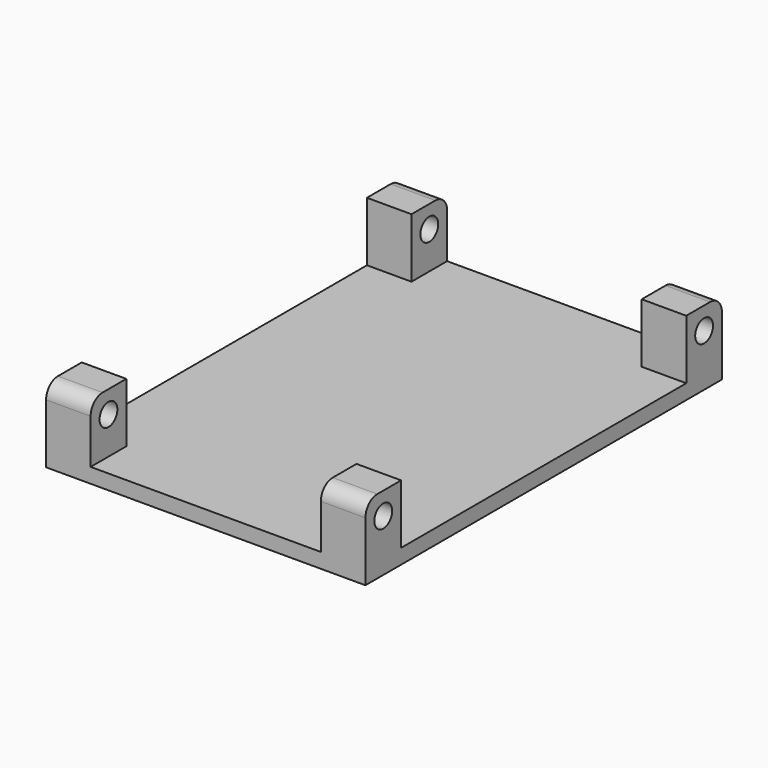
from build123d import *

# Parameters (mm, degrees)
SKETCH_W        = 43
SKETCH_H        = 60
PAD_DEPTH       = 2
SKETCH001_W     = 6
SKETCH001_H     = 6
PAD001_DEPTH    = 8
SKETCH002_R     = 1.5
POCKET_DEPTH    = 6
SKETCH003_R     = 1.5
POCKET001_DEPTH = 6
FILLET_R        = 2
FILLET001_R     = 2
FILLET002_R     = 2
FILLET003_R     = 2


with BuildPart() as part:
    # Sketch → Pad (new body)
    with BuildSketch(Plane.XY):
        Rectangle(SKETCH_W, SKETCH_H)
    extrude(amount=PAD_DEPTH)

    # Sketch001 (on Face6 of Pad) → Pad001 (join)
    with BuildSketch(Plane.XY.offset(2)):
        with Locations((-18.5, 27)):
            Rectangle(SKETCH001_W, SKETCH001_H)
        with Locations((18.5, 27)):
            Rectangle(SKETCH001_W, SKETCH001_H)
        with Locations((-18.5, -27)):
            Rectangle(SKETCH001_W, SKETCH001_H)
        with Locations((18.5, -27)):
            Rectangle(SKETCH001_W, SKETCH001_H)
    extrude(amount=PAD001_DEPTH)

    # Sketch002 (on Face12 of Pad001) → Pocket (cut)
    with BuildSketch(Plane.YZ.offset(21.5)):
        with Locations((-27, 7)):
            Circle(SKETCH002_R)
        with Locations((27, 7)):
            Circle(SKETCH002_R)
    extrude(amount=-POCKET_DEPTH, mode=Mode.SUBTRACT)

    # Sketch003 (on Face10 of Pocket) → Pocket001 (cut)
    with BuildSketch(Plane(origin=(-21.5, 0, 0), x_dir=(0, -1, 0), z_dir=(-1, 0, 0))):
        with Locations((-27, 7)):
            Circle(SKETCH003_R)
        with Locations((27, 7)):
            Circle(SKETCH003_R)
    extrude(amount=-POCKET001_DEPTH, mode=Mode.SUBTRACT)

    # Fillet
    fillet_edges = [part.edges().sort_by_distance(p)[0] for p in [
        (18.5, 30, 10),
    ]]
    fillet(fillet_edges, radius=FILLET_R)

    # Fillet001
    fillet001_edges = [part.edges().sort_by_distance(p)[0] for p in [
        (-18.5, 30, 10),
    ]]
    fillet(fillet001_edges, radius=FILLET001_R)

    # Fillet002
    fillet002_edges = [part.edges().sort_by_distance(p)[0] for p in [
        (-18.5, -30, 10),
    ]]
    fillet(fillet002_edges, radius=FILLET002_R)

    # Fillet003
    fillet003_edges = [part.edges().sort_by_distance(p)[0] for p in [
        (18.5, -30, 10),
    ]]
    fillet(fillet003_edges, radius=FILLET003_R)


solid = part.part
